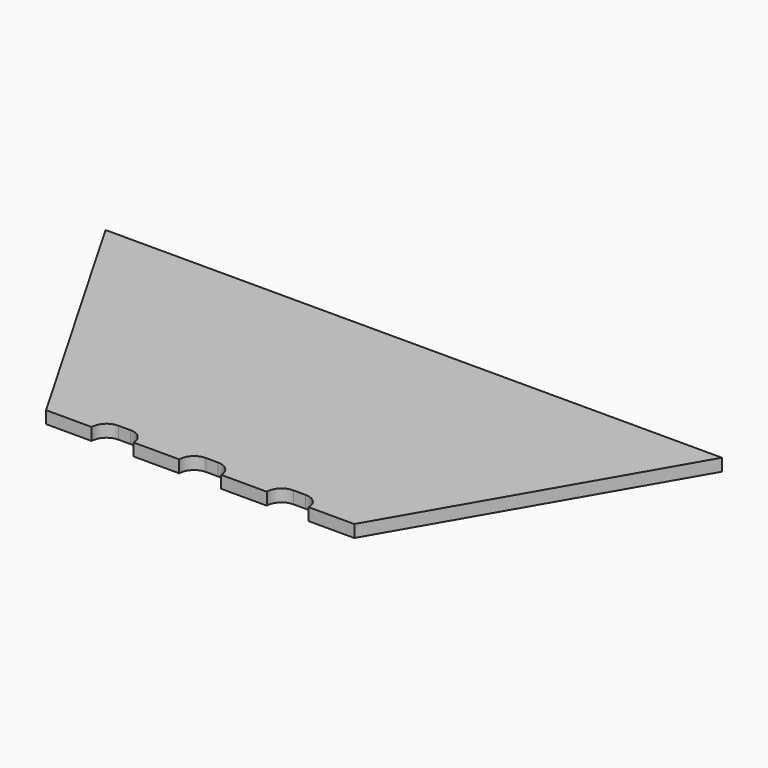
from build123d import *

# Parameters (mm, degrees)
F1_DEPTH = 0.5
F3_DEPTH = 0.501
F5_DEPTH = 0.501


with BuildPart() as f1:
    # F0 (on Top) → F1 (new body)
    with BuildSketch(Plane.XY):
        Polygon((6.25, -10.825318), (12.5, 0), (6.25, 10.825318), (-6.25, 10.825318), (-12.5, 0), (-6.25, -10.825318), align=None)
    extrude(amount=F1_DEPTH)

    # F2 (on face) → F3 (cut, through all)
    with BuildSketch(Plane.XY.offset(0.5)):
        with BuildLine():
            ThreePointArc((4.4, -10.825318), (4.224264, -10.401053), (3.8, -10.225318))
            Line((3.8, -10.225318), (3.3, -10.225318))
            ThreePointArc((3.3, -10.225318), (2.875736, -10.401053), (2.7, -10.825318))
            Line((2.7, -10.825318), (4.4, -10.825318))
        make_face()
        with BuildLine():
            ThreePointArc((0.85, -10.825318), (0.674264, -10.401053), (0.25, -10.225318))
            Line((0.25, -10.225318), (-0.25, -10.225318))
            ThreePointArc((-0.25, -10.225318), (-0.674264, -10.401053), (-0.85, -10.825318))
            Line((-0.85, -10.825318), (0.85, -10.825318))
        make_face()
        with BuildLine():
            ThreePointArc((-2.7, -10.825318), (-2.875736, -10.401053), (-3.3, -10.225318))
            Line((-3.3, -10.225318), (-3.8, -10.225318))
            ThreePointArc((-3.8, -10.225318), (-4.224264, -10.401053), (-4.4, -10.825318))
            Line((-4.4, -10.825318), (-2.7, -10.825318))
        make_face()
    extrude(amount=-F3_DEPTH, mode=Mode.SUBTRACT)

    # F4 (on face) → F5 (cut, through all)
    with BuildSketch(Plane.XY.offset(0.5)):
        Polygon((-6.25, 10.825318), (-12.5, 0), (12.5, 0), (6.25, 10.825318), align=None)
    extrude(amount=-F5_DEPTH, mode=Mode.SUBTRACT)


solid = f1.part
